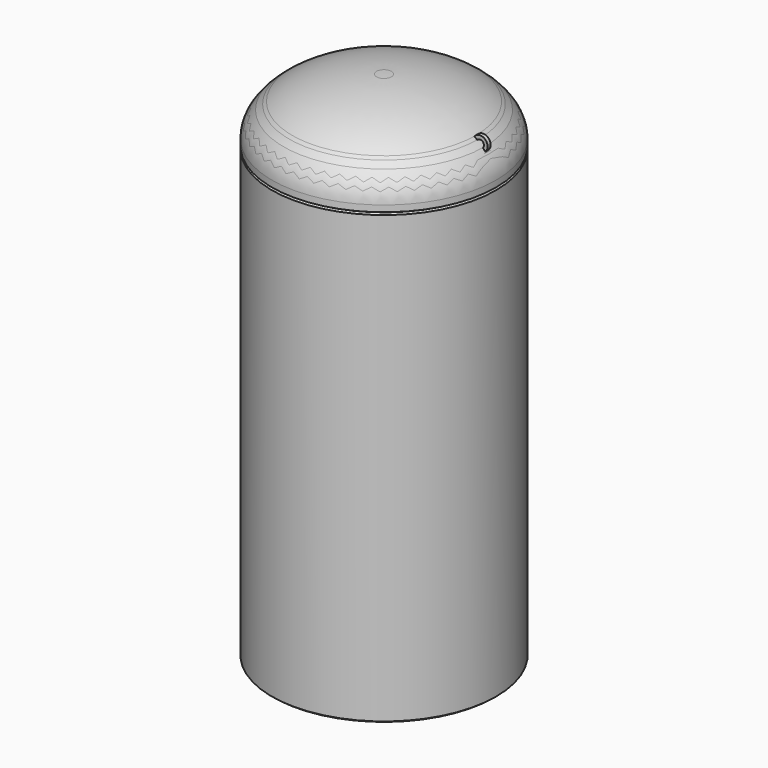
from build123d import *

# Parameters (mm, degrees)
F2_DEPTH = 12.7


with BuildPart() as f1:
    # F0 (on Front) → F1 (revolve)
    with BuildSketch(Plane.XZ):
        with BuildLine():
            Line((749.3, 50.8), (749.3, 0))
            Line((749.3, 0), (762, 7.3323484187))
            Line((762, 7.3323484187), (762, 50.8))
            add(Edge.make_bspline(
                [(762, 50.8), (762, 131.2241999089), (699.0172358285, 205.0009740743)],
                knots=[0, 0, 0, 0.4094360974, 0.4094360974, 0.4094360974], degree=2, weights=[1, 0.9791183416, 1]))
            add(Edge.make_bspline(
                [(699.0172358285, 205.0009740743), (690.9176289865, 214.4886946066), (681.8335632743, 223.7431821446)],
                knots=[0.4094360974, 0.4094360974, 0.4094360974, 0.4628251519, 0.4628251519, 0.4628251519], degree=2, weights=[1, 0.9996437223, 1]))
            add(Edge.make_bspline(
                [(681.8335632743, 223.7431821446), (664.6677239017, 241.2310616458), (644.1262863112, 257.7518131682)],
                knots=[0.4628251519, 0.4628251519, 0.4628251519, 0.5636510386, 0.5636510386, 0.5636510386], degree=2, weights=[1, 0.9987295367, 1]))
            add(Edge.make_bspline(
                [(644.1262863112, 257.7518131682), (634.3865563599, 265.5851333879), (623.9210747916, 273.1727348794)],
                knots=[0.5636510386, 0.5636510386, 0.5636510386, 0.6114890844, 0.6114890844, 0.6114890844], degree=2, weights=[1, 0.9997139538, 1]))
            add(Edge.make_bspline(
                [(623.9210747916, 273.1727348794), (414.6015402479, 424.9319446319), (50.8, 437.2882636712)],
                knots=[0.6114890844, 0.6114890844, 0.6114890844, 1.5040801784, 1.5040801784, 1.5040801784], degree=2, weights=[1, 0.9020522297, 1]))
            Line((50.8, 437.2882636712), (50.8, 424.5879913801))
            add(Edge.make_bspline(
                [(749.3, 50.8), (749.3, 400.8554204989), (50.8, 424.5879913801)],
                knots=[0, 0, 0, 1.5029476724, 1.5029476724, 1.5029476724], degree=2, weights=[1, 0.7306834507, 1]))
        make_face()
    revolve(axis=Axis((0, 0, 238.125), (0, 0, 1)))

    # F0 (on Front) → F2 (join, symmetric)
    with BuildSketch(Plane.XZ):
        with BuildLine():
            add(Edge.make_bspline(
                [(699.0172358285, 205.0009740743), (690.9176289865, 214.4886946066), (681.8335632743, 223.7431821446)],
                knots=[0.4094360974, 0.4094360974, 0.4094360974, 0.4628251519, 0.4628251519, 0.4628251519], degree=2, weights=[1, 0.9996437223, 1]))
            ThreePointArc((699.0172358285, 205.0009740743), (697.6232713112, 278.913247184), (623.9210747916, 273.1727348794))
            add(Edge.make_bspline(
                [(644.1262863112, 257.7518131682), (634.3865563599, 265.5851333879), (623.9210747916, 273.1727348794)],
                knots=[0.5636510386, 0.5636510386, 0.5636510386, 0.6114890844, 0.6114890844, 0.6114890844], degree=2, weights=[1, 0.9997139538, 1]))
            ThreePointArc((644.1262863112, 257.7518131682), (680.4898484335, 260.1617322331), (681.8335632743, 223.7431821446))
        make_face()
    extrude(amount=F2_DEPTH, both=True)


with BuildPart() as f4:
    # F3 (on Front) → F4 (revolve)
    with BuildSketch(Plane.XZ):
        Polygon((762, -9.5701364363), (749.3, 0), (749.3, -3048), (762, -3038.4298635637), align=None)
    revolve(axis=Axis((0, 0, -1524), (0, 0, -1)))


with BuildPart() as f5:
    # F0 (on Front) → F5 (revolve)
    with BuildSketch(Plane.XZ):
        with BuildLine():
            add(Edge.make_bspline(
                [(50.8, 424.5879913801), (25.4292542859, 425.45), (0, 425.45)],
                knots=[1.5029476724, 1.5029476724, 1.5029476724, 1.5707963268, 1.5707963268, 1.5707963268], degree=2, weights=[1, 0.9994246252, 1]))
            Line((50.8, 424.5879913801), (50.8, 437.2882636712))
            add(Edge.make_bspline(
                [(50.8, 437.2882636712), (25.428285113, 438.15), (0, 438.15)],
                knots=[1.5040801784, 1.5040801784, 1.5040801784, 1.5707963268, 1.5707963268, 1.5707963268], degree=2, weights=[1, 0.999443671, 1]))
            Line((0, 438.15), (0, 425.45))
        make_face()
        with BuildLine():
            Line((749.3, 50.8), (749.3, 0))
            Line((749.3, 0), (762, 7.3323484187))
            Line((762, 7.3323484187), (762, 50.8))
            add(Edge.make_bspline(
                [(762, 50.8), (762, 131.2241999089), (699.0172358285, 205.0009740743)],
                knots=[0, 0, 0, 0.4094360974, 0.4094360974, 0.4094360974], degree=2, weights=[1, 0.9791183416, 1]))
            add(Edge.make_bspline(
                [(699.0172358285, 205.0009740743), (690.9176289865, 214.4886946066), (681.8335632743, 223.7431821446)],
                knots=[0.4094360974, 0.4094360974, 0.4094360974, 0.4628251519, 0.4628251519, 0.4628251519], degree=2, weights=[1, 0.9996437223, 1]))
            add(Edge.make_bspline(
                [(681.8335632743, 223.7431821446), (664.6677239017, 241.2310616458), (644.1262863112, 257.7518131682)],
                knots=[0.4628251519, 0.4628251519, 0.4628251519, 0.5636510386, 0.5636510386, 0.5636510386], degree=2, weights=[1, 0.9987295367, 1]))
            add(Edge.make_bspline(
                [(644.1262863112, 257.7518131682), (634.3865563599, 265.5851333879), (623.9210747916, 273.1727348794)],
                knots=[0.5636510386, 0.5636510386, 0.5636510386, 0.6114890844, 0.6114890844, 0.6114890844], degree=2, weights=[1, 0.9997139538, 1]))
            add(Edge.make_bspline(
                [(623.9210747916, 273.1727348794), (414.6015402479, 424.9319446319), (50.8, 437.2882636712)],
                knots=[0.6114890844, 0.6114890844, 0.6114890844, 1.5040801784, 1.5040801784, 1.5040801784], degree=2, weights=[1, 0.9020522297, 1]))
            Line((50.8, 437.2882636712), (50.8, 424.5879913801))
            add(Edge.make_bspline(
                [(749.3, 50.8), (749.3, 400.8554204989), (50.8, 424.5879913801)],
                knots=[0, 0, 0, 1.5029476724, 1.5029476724, 1.5029476724], degree=2, weights=[1, 0.7306834507, 1]))
        make_face()
    revolve(axis=Axis((0, 0, 238.125), (0, 0, 1)))


solid = Compound([f1.part, f4.part, f5.part])
